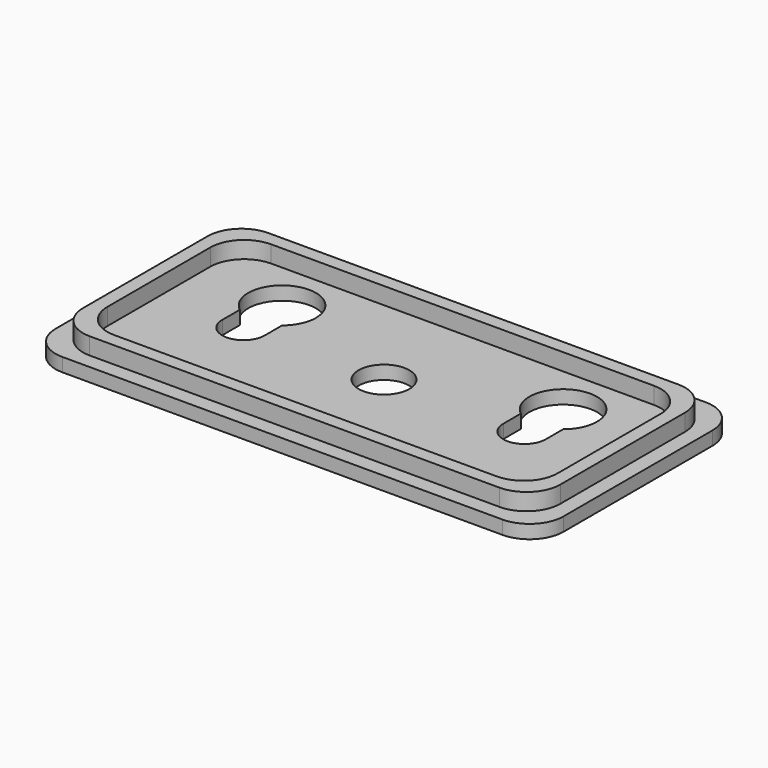
from build123d import *

# Parameters (mm, degrees)
F0_W     = 76.2
F0_H     = 38.1
F1_DEPTH = 2.032
F2_R     = 3.81
F3_DEPTH = 25.4
F2_W     = 71.628
F2_H     = 33.528
F2_W_2   = 67.564
F2_H_2   = 29.464
F4_DEPTH = 2.54
F5_R     = 5.08
F7_DEPTH = 25.4
F8_DEPTH = 25.4


with BuildPart() as f1:
    # F0 (on Top) → F1 (new body)
    with BuildSketch(Plane.XY):
        Rectangle(F0_W, F0_H)
    extrude(amount=F1_DEPTH)

    # F2 (on face) → F3 (cut)
    with BuildSketch(Plane.XY.offset(2.032)):
        Circle(F2_R)
    extrude(amount=-F3_DEPTH, mode=Mode.SUBTRACT)

    # F2 (on face) → F4 (join)
    with BuildSketch(Plane.XY.offset(2.032)):
        Rectangle(F2_W, F2_H)
        Rectangle(F2_W_2, F2_H_2, mode=Mode.SUBTRACT)
    extrude(amount=F4_DEPTH)

    # F5
    f5_edges = [f1.edges().sort_by_distance(p)[0] for p in [
        (-33.782, 14.732, 3.302),
        (-33.782, -14.732, 3.302),
        (33.782, -14.732, 3.302),
        (33.782, 14.732, 3.302),
        (-35.814, -16.764, 3.302),
        (-38.1, -19.05, 1.016),
        (38.1, -19.05, 1.016),
        (35.814, -16.764, 3.302),
        (38.1, 19.05, 1.016),
        (35.814, 16.764, 3.302),
        (-35.814, 16.764, 3.302),
        (-38.1, 19.05, 1.016),
    ]]
    fillet(f5_edges, radius=F5_R)

    # F6 (on face) → F7 (cut)
    with BuildSketch(Plane.XY.offset(2.032)):
        with BuildLine():
            ThreePointArc((22.9948570038, 2.5340882153), (21.082, 3.175), (19.1691429962, 2.5340882153))
            ThreePointArc((19.1691429962, 2.5340882153), (21.082, 2.1601883081), (22.9948570038, 2.5340882153))
        make_face()
        with BuildLine():
            ThreePointArc((19.1691429962, 2.5340882153), (18.2399984177, 1.4155041527), (17.907, 0))
            ThreePointArc((17.907, 0), (21.082, -3.175), (24.257, 0))
            ThreePointArc((24.257, 0), (23.9240015823, 1.4155041527), (22.9948570038, 2.5340882153))
            ThreePointArc((22.9948570038, 2.5340882153), (21.082, 2.1601883081), (19.1691429962, 2.5340882153))
        make_face()
        with BuildLine():
            ThreePointArc((17.907, 3.2746145791), (18.511267216, 2.8586665458), (19.1691429962, 2.5340882153))
            ThreePointArc((19.1691429962, 2.5340882153), (21.082, 3.175), (22.9948570038, 2.5340882153))
            ThreePointArc((22.9948570038, 2.5340882153), (23.652732784, 2.8586665458), (24.257, 3.2746145791))
            ThreePointArc((24.257, 3.2746145791), (25.6610501198, 5.0404837824), (26.162, 7.2401883081))
            ThreePointArc((26.162, 7.2401883081), (18.8822954744, 11.8192384279), (17.907, 3.2746145791))
        make_face()
        with BuildLine():
            Line((17.907, 3.2746145791), (17.907, 0))
            ThreePointArc((17.907, 0), (18.2399984177, 1.4155041527), (19.1691429962, 2.5340882153))
            ThreePointArc((19.1691429962, 2.5340882153), (18.511267216, 2.8586665458), (17.907, 3.2746145791))
        make_face()
        with BuildLine():
            ThreePointArc((22.9948570038, 2.5340882153), (23.9240015823, 1.4155041527), (24.257, 0))
            Line((24.257, 0), (24.257, 3.2746145791))
            ThreePointArc((24.257, 3.2746145791), (23.652732784, 2.8586665458), (22.9948570038, 2.5340882153))
        make_face()
    extrude(amount=-F7_DEPTH, mode=Mode.SUBTRACT)

    # F6 (on face) → F8 (cut)
    with BuildSketch(Plane.XY.offset(2.032)):
        with BuildLine():
            ThreePointArc((-24.257, 3.2746145791), (-23.652732784, 2.8586665458), (-22.9948570038, 2.5340882153))
            ThreePointArc((-22.9948570038, 2.5340882153), (-21.082, 3.175), (-19.1691429962, 2.5340882153))
            ThreePointArc((-19.1691429962, 2.5340882153), (-18.511267216, 2.8586665458), (-17.907, 3.2746145791))
            ThreePointArc((-17.907, 3.2746145791), (-16.5029498802, 5.0404837824), (-16.002, 7.2401883081))
            ThreePointArc((-16.002, 7.2401883081), (-23.2817045256, 11.8192384279), (-24.257, 3.2746145791))
        make_face()
        with BuildLine():
            ThreePointArc((-22.9948570038, 2.5340882153), (-23.9240015823, 1.4155041527), (-24.257, 0))
            ThreePointArc((-24.257, 0), (-21.082, -3.175), (-17.907, 0))
            ThreePointArc((-17.907, 0), (-18.2399984177, 1.4155041527), (-19.1691429962, 2.5340882153))
            ThreePointArc((-19.1691429962, 2.5340882153), (-21.082, 2.1601883081), (-22.9948570038, 2.5340882153))
        make_face()
        with BuildLine():
            Line((-24.257, 3.2746145791), (-24.257, 0))
            ThreePointArc((-24.257, 0), (-23.9240015823, 1.4155041527), (-22.9948570038, 2.5340882153))
            ThreePointArc((-22.9948570038, 2.5340882153), (-23.652732784, 2.8586665458), (-24.257, 3.2746145791))
        make_face()
        with BuildLine():
            ThreePointArc((-19.1691429962, 2.5340882153), (-21.082, 3.175), (-22.9948570038, 2.5340882153))
            ThreePointArc((-22.9948570038, 2.5340882153), (-21.082, 2.1601883081), (-19.1691429962, 2.5340882153))
        make_face()
        with BuildLine():
            ThreePointArc((-19.1691429962, 2.5340882153), (-18.2399984177, 1.4155041527), (-17.907, 0))
            Line((-17.907, 0), (-17.907, 3.2746145791))
            ThreePointArc((-17.907, 3.2746145791), (-18.511267216, 2.8586665458), (-19.1691429962, 2.5340882153))
        make_face()
    extrude(amount=-F8_DEPTH, mode=Mode.SUBTRACT)


solid = f1.part
